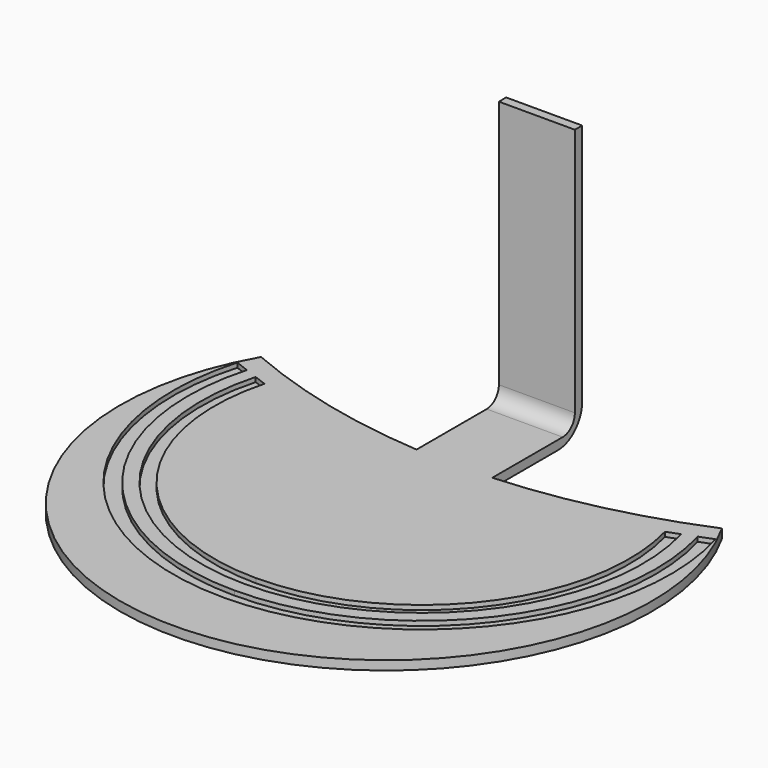
from build123d import *

# Parameters (mm, degrees)
F0_W     = 50
F0_H     = 6
F2_DEPTH = 130
F0_H_2   = 100
F0_H_3   = 74
F3_DEPTH = 6
F4_R     = 20
F5_R     = 10
F7_DEPTH = 6
F9_DEPTH = 3


with BuildPart() as f2:
    # F0 (on Front) → F2 (new body)
    with BuildSketch(Plane.XZ):
        with Locations((-5, -147)):
            Rectangle(F0_W, F0_H)
    extrude(amount=F2_DEPTH)

    # F0 (on Front) → F3 (join)
    with BuildSketch(Plane.XZ):
        with Locations((-5, -20)):
            Rectangle(F0_W, F0_H_2)
        with Locations((-5, -107)):
            Rectangle(F0_W, F0_H_3)
        with Locations((-5, -147)):
            Rectangle(F0_W, F0_H)
    extrude(amount=F3_DEPTH)

    # F4
    f4_edges = [f2.edges().sort_by_distance(p)[0] for p in [
        (-5, 0, -150),
    ]]
    fillet(f4_edges, radius=F4_R)

    # F5
    f5_edges = [f2.edges().sort_by_distance(p)[0] for p in [
        (-5, -6, -144),
    ]]
    fillet(f5_edges, radius=F5_R)

    # F6 (on face) → F7 (join)
    with BuildSketch(Plane.XY.offset(-144)):
        with BuildLine():
            ThreePointArc((-30, -73.708494), (-94.658376, -63.779027), (-156.74109, -43.162615))
            ThreePointArc((-156.74109, -43.162615), (-5.609318, -304.830543), (147.342686, -44.222404))
            ThreePointArc((147.342686, -44.222404), (84.92667, -64.450181), (20, -73.90796))
            Line((20, -73.90796), (20, -130))
            Line((20, -130), (-30, -130))
            Line((-30, -130), (-30, -73.708494))
        make_face()
    extrude(amount=-F7_DEPTH)

    # F8 (on face) → F9 (cut)
    with BuildSketch(Plane.XY.offset(-144)):
        with BuildLine():
            ThreePointArc((-5, -254.552964), (-127.681443, -193.636873), (-153.304019, -59.082088))
            Line((-153.304019, -59.082088), (-162.379453, -55.630867))
            ThreePointArc((-162.379453, -55.630867), (-135.651994, -199.132241), (-5, -264.224927))
            ThreePointArc((-5, -264.224927), (125.651994, -199.132241), (152.379453, -55.630867))
            Line((152.379453, -55.630867), (143.304019, -59.082088))
            ThreePointArc((143.304019, -59.082088), (117.681443, -193.636873), (-5, -254.552964))
        make_face()
        with BuildLine():
            Line((-136.756967, -65.374629), (-144.992024, -62.242987))
            ThreePointArc((-144.992024, -62.242987), (-120.384014, -188.605777), (-5, -245.699019))
            ThreePointArc((-5, -245.699019), (110.384014, -188.605777), (134.992024, -62.242987))
            Line((134.992024, -62.242987), (126.756967, -65.374629))
            ThreePointArc((126.756967, -65.374629), (103.157098, -183.623516), (-5, -236.932005))
            ThreePointArc((-5, -236.932005), (-113.157098, -183.623516), (-136.756967, -65.374629))
        make_face()
    extrude(amount=-F9_DEPTH, mode=Mode.SUBTRACT)


solid = f2.part
